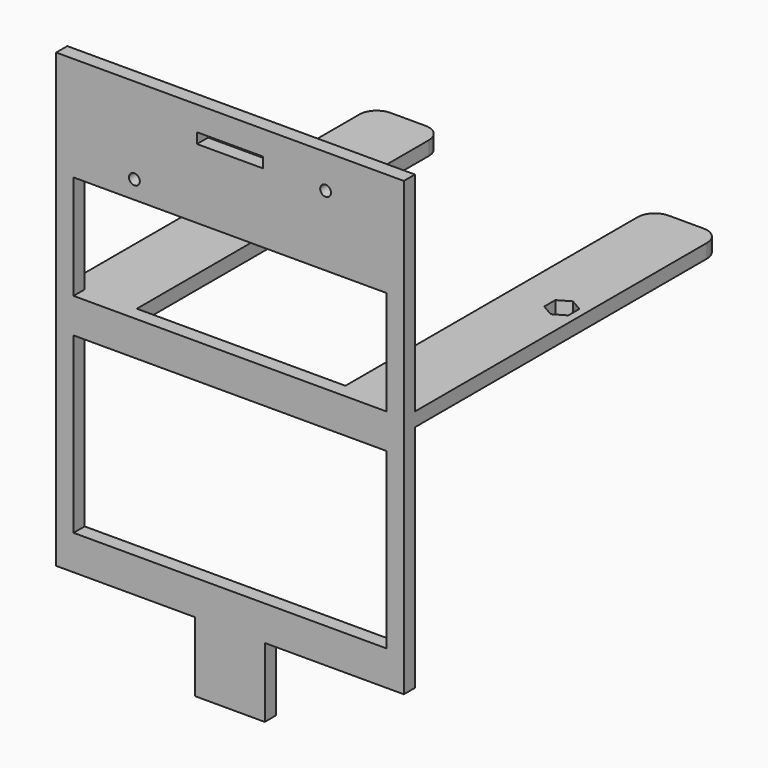
from build123d import *

# Parameters (mm, degrees)
F0_W     = 90
F0_H     = 50
F0_H_2   = 30
F0_R     = 1.55
F0_W_2   = 19
F0_H_3   = 3
F1_DEPTH = 4
F3_DEPTH = 4
F4_W     = 0.5
F4_H     = 20
F5_DEPTH = 0.5


with BuildPart() as f1:
    # F0 (on Front) → F1 (new body)
    with BuildSketch(Plane.XZ):
        Polygon((50.859297, 66.157015), (-49.140703, 66.157015), (-49.140703, -63.842985), (-9.140703, -63.842985), (-9.140703, -83.842985), (10.859297, -83.842985), (10.859297, -63.842985), (50.859297, -63.842985), align=None)
        with Locations((0.859297, -28.842985)):
            Rectangle(F0_W, F0_H, mode=Mode.SUBTRACT)
        with Locations((0.859297, 21.157015)):
            Rectangle(F0_W, F0_H_2, mode=Mode.SUBTRACT)
        with Locations((-26.640703, 41.357015)):
            Circle(F0_R, mode=Mode.SUBTRACT)
        with Locations((0.859297, 57.657015)):
            Rectangle(F0_W_2, F0_H_3, mode=Mode.SUBTRACT)
        with Locations((28.359297, 56.357015)):
            Circle(F0_R, mode=Mode.SUBTRACT)
    extrude(amount=F1_DEPTH)

    # F2 (on face) → F3 (join)
    with BuildSketch(Plane.XY.offset(6.157015)):
        with BuildLine():
            Line((-49.140703, 105), (-49.140703, 0))
            Line((-49.140703, 0), (-29.140703, 0))
            Line((-29.140703, 0), (-29.140703, 105))
            ThreePointArc((-29.140703, 105), (-30.605169, 108.535534), (-34.140703, 110))
            Line((-34.140703, 110), (-44.140703, 110))
            ThreePointArc((-44.140703, 110), (-47.676237, 108.535534), (-49.140703, 105))
        make_face()
        Polygon((-46.854805, 62), (-43.390703, 64), (-39.926602, 62), (-39.926602, 58), (-43.390703, 56), (-46.854805, 58), align=None, mode=Mode.SUBTRACT)
        with BuildLine():
            Line((30.859297, 105), (30.859297, 0))
            Line((30.859297, 0), (50.859297, 0))
            Line((50.859297, 0), (50.859297, 105))
            ThreePointArc((50.859297, 105), (49.394831, 108.535534), (45.859297, 110))
            Line((45.859297, 110), (35.859297, 110))
            ThreePointArc((35.859297, 110), (32.323763, 108.535534), (30.859297, 105))
        make_face()
        Polygon((45.109297, 64), (48.573398, 62), (48.573398, 58), (45.109297, 56), (41.645195, 58), (41.645195, 62), align=None, mode=Mode.SUBTRACT)
    extrude(amount=-F3_DEPTH)

    # F4 (on face) → F5 (cut)
    with BuildSketch(Plane(origin=(0, 0, 0), x_dir=(-1, 0, 0), z_dir=(0, 1, 0))):
        with Locations((-0.859297, -73.842985)):
            Rectangle(F4_W, F4_H)
    extrude(amount=-F5_DEPTH, mode=Mode.SUBTRACT)


solid = f1.part
